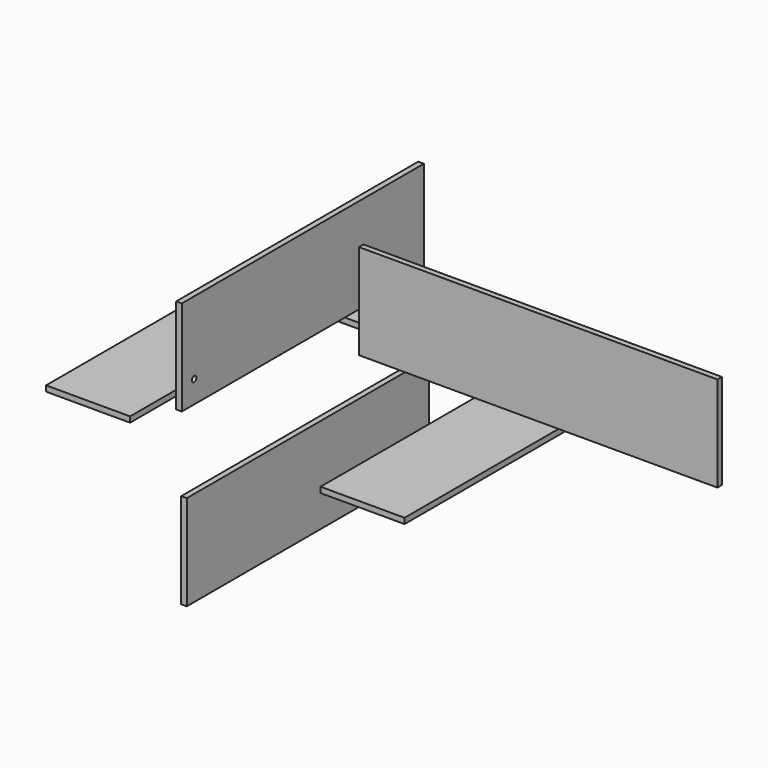
from build123d import *

# Parameters (mm, degrees)
F1_DEPTH = 12.7
F2_W     = 685.8
F2_H     = 215.9
F2_R     = 6.35
F3_DEPTH = 6.35
F4_W     = 685.8
F4_H     = 215.9
F5_DEPTH = 6.35
F6_W     = 812.8
F6_H     = 215.9
F7_DEPTH = 6.35


with BuildPart() as f1:
    # F0 (on Top) → F1 (new body)
    with BuildSketch(Plane.XY):
        with BuildLine():
            Line((-317.7088467273, 330.0617613852), (-317.7088467273, -368.4382386148))
            Line((-317.7088467273, -368.4382386148), (-127.2088467273, -368.4382386148))
            Line((-127.2088467273, -368.4382386148), (-127.2088467273, 139.5617613852))
            ThreePointArc((-127.2088467273, 139.5617613852), (-119.7693589695, 157.5222736273), (-101.8088467273, 164.9617613852))
            Line((-101.8088467273, 164.9617613852), (279.1911532727, 164.9617613852))
            ThreePointArc((279.1911532727, 164.9617613852), (297.1516655148, 157.5222736273), (304.5911532727, 139.5617613852))
            Line((304.5911532727, 139.5617613852), (304.5911532727, -368.4382386148))
            Line((304.5911532727, -368.4382386148), (495.0911532727, -368.4382386148))
            Line((495.0911532727, -368.4382386148), (495.0911532727, 330.0617613852))
            Line((495.0911532727, 330.0617613852), (-317.7088467273, 330.0617613852))
        make_face()
    extrude(amount=F1_DEPTH)


with BuildPart() as f3:
    # F2 (on Right) → F3 (new body, symmetric)
    with BuildSketch(Plane.YZ):
        with Locations((-45.8921939392, 181.9225773215)):
            Rectangle(F2_W, F2_H)
        with Locations((-353.8671939392, 124.7725773215)):
            Circle(F2_R, mode=Mode.SUBTRACT)
    extrude(amount=F3_DEPTH, both=True)


with BuildPart() as f5:
    # F4 (on Right) → F5 (new body, symmetric)
    with BuildSketch(Plane.YZ):
        with Locations((-31.768632142, -212.574288249)):
            Rectangle(F4_W, F4_H)
    extrude(amount=F5_DEPTH, both=True)


with BuildPart() as f7:
    # F6 (on Front) → F7 (new body, symmetric)
    with BuildSketch(Plane.XZ):
        with Locations((508.3448041916, 170.053509903)):
            Rectangle(F6_W, F6_H)
    extrude(amount=F7_DEPTH, both=True)


solid = Compound([f1.part, f3.part, f5.part, f7.part])
